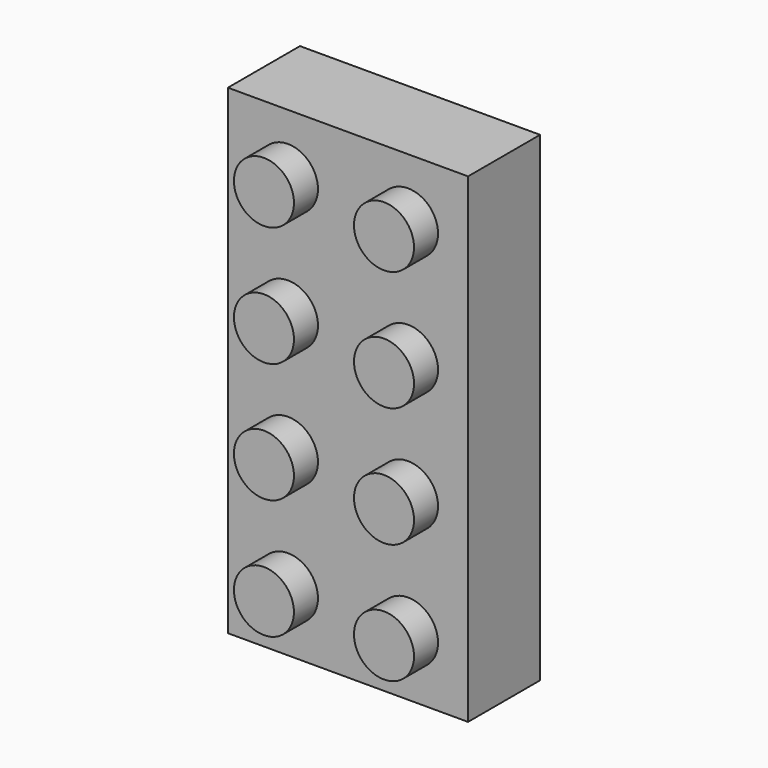
from build123d import *

# Parameters (mm, degrees)
F0_W     = 50.8
F0_H     = 101.6
F1_DEPTH = 19.05
F2_R     = 6.35
F3_DEPTH = 6.35
F5_DEPTH = 6.858


with BuildPart() as f1:
    # F0 (on Front) → F1 (new body)
    with BuildSketch(Plane.XZ):
        with Locations((25.4, 50.8)):
            Rectangle(F0_W, F0_H)
    extrude(amount=F1_DEPTH)

    # F2 (on face) → F3 (join)
    with BuildSketch(Plane.XZ.offset(19.05)):
        with Locations((12.7, 88.9)):
            Circle(F2_R)
        with Locations((38.1, 88.9)):
            Circle(F2_R)
        with Locations((12.7, 63.5)):
            Circle(F2_R)
        with Locations((38.1, 63.5)):
            Circle(F2_R)
        with Locations((12.7, 38.1)):
            Circle(F2_R)
        with Locations((38.1, 38.1)):
            Circle(F2_R)
        with Locations((12.7, 12.7)):
            Circle(F2_R)
        with Locations((38.1, 12.7)):
            Circle(F2_R)
    extrude(amount=F3_DEPTH)

    # F4 (on face) → F5 (cut)
    with BuildSketch(Plane(origin=(0, 0, 0), x_dir=(-1, 0, 0), z_dir=(0, 1, 0))):
        with BuildLine():
            Line((-12.7, 95.25), (-38.1, 95.25))
            ThreePointArc((-38.1, 95.25), (-42.590128, 93.390128), (-44.45, 88.9))
            Line((-44.45, 88.9), (-44.45, 12.7))
            ThreePointArc((-44.45, 12.7), (-42.590128, 8.209872), (-38.1, 6.35))
            Line((-38.1, 6.35), (-12.7, 6.35))
            ThreePointArc((-12.7, 6.35), (-8.209872, 8.209872), (-6.35, 12.7))
            Line((-6.35, 12.7), (-6.35, 88.9))
            ThreePointArc((-6.35, 88.9), (-8.209872, 93.390128), (-12.7, 95.25))
        make_face()
    extrude(amount=-F5_DEPTH, mode=Mode.SUBTRACT)


solid = f1.part
